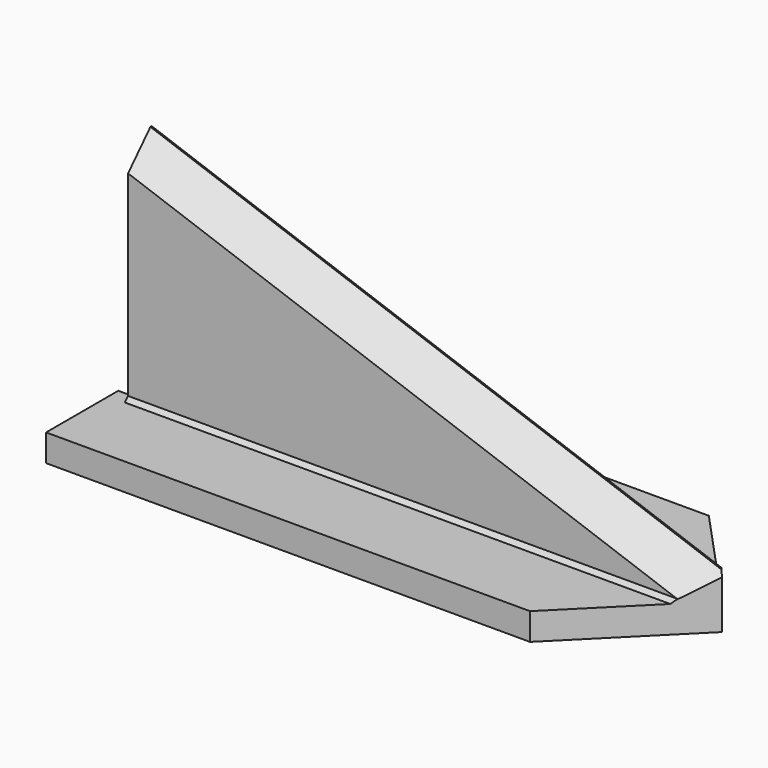
from build123d import *

# Parameters (mm, degrees)
PAD_DEPTH       = 0.1
PAD001_DEPTH    = 2.2
PAD002_DEPTH    = 1
PAD003_DEPTH    = 28
POCKET_DEPTH    = 8
SKETCH005_W     = 5
SKETCH005_H     = 3
POCKET001_DEPTH = 60
CHAMFER_SIZE    = 3.4
CHAMFER001_SIZE = 0.5


with BuildPart() as part:
    # Sketch → Pad (new body)
    with BuildSketch(Plane.XY):
        Polygon((0, 0), (60, 0), (72, -13), (59, -26), (0, -26), align=None)
    extrude(amount=PAD_DEPTH)

    # Sketch001 (on Face7 of Pad) → Pad001 (join)
    with BuildSketch(Plane.XY.offset(0.1)):
        Polygon((0, -1), (59.5, -1), (70.5, -13), (58.5, -25), (0.001879, -25), (0, -26), (59, -26), (72, -13), (60, 0), (0, 0), align=None)
    extrude(amount=PAD001_DEPTH)

    # Sketch002 (on Face3 of Pad001) → Pad002 (join)
    with BuildSketch(Plane.XY.offset(2.3)):
        Polygon((0, 0), (60, 0), (72, -13), (59, -26), (0, -26), align=None)
    extrude(amount=PAD002_DEPTH)

    # Sketch003 (on Face9 of Pad002) → Pad003 (join)
    with BuildSketch(Plane.XY.offset(3.3)):
        Polygon((2, -9), (68.307692, -9), (72, -13), (69, -16), (2, -16), align=None)
    extrude(amount=PAD003_DEPTH)

    # Sketch004 (on Face13 of Pad003) → Pocket (cut)
    with BuildSketch(Plane.XZ.offset(16)):
        Polygon((2, 31.3), (72, 6.3), (72, 31.3), align=None)
    extrude(amount=-POCKET_DEPTH, mode=Mode.SUBTRACT)

    # Sketch005 (on Face7 of Pocket) → Pocket001 (cut)
    with BuildSketch(Plane(origin=(0, 0, 0), x_dir=(0, -1, 0), z_dir=(-1, 0, 0))):
        with Locations((12.5, 3.8)):
            Rectangle(SKETCH005_W, SKETCH005_H)
    extrude(amount=-POCKET001_DEPTH, mode=Mode.SUBTRACT)

    # Chamfer
    chamfer_edges = [part.edges().sort_by_distance(p)[0] for p in [
        (35.153846, -9, 19.459341),
        (35.5, -16, 19.335714),
    ]]
    chamfer(chamfer_edges, length=CHAMFER_SIZE)

    # Chamfer001
    chamfer001_edges = [part.edges().sort_by_distance(p)[0] for p in [
        (35.5, -16, 3.3),
        (35.153846, -9, 3.3),
    ]]
    chamfer(chamfer001_edges, length=CHAMFER001_SIZE)


solid = part.part
